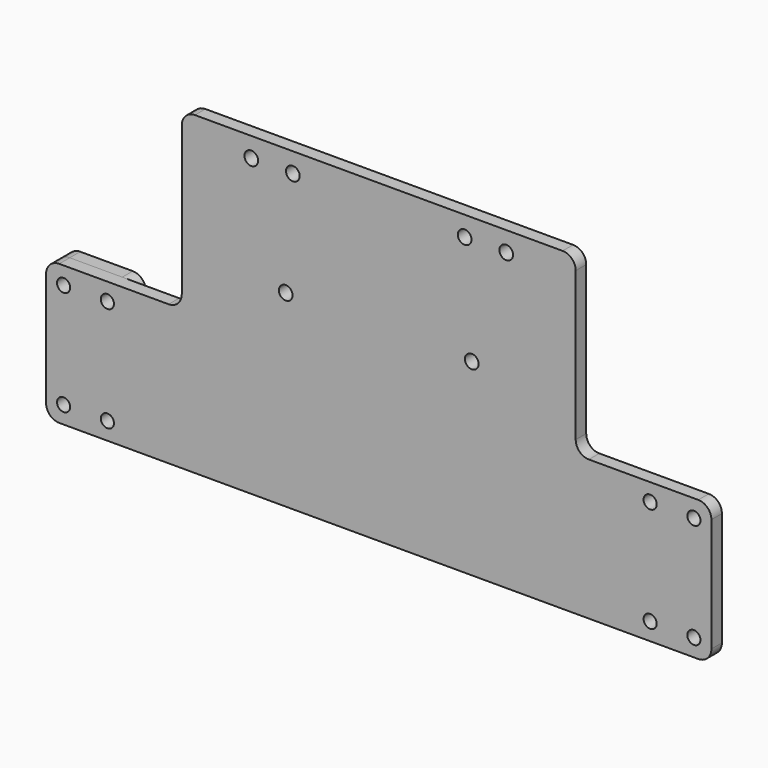
from build123d import *

# Parameters (mm, degrees)
F0_R     = 9.9314
F0_R_2   = 9.525
F1_DEPTH = 19.05
F2_R     = 9.525
F3_DEPTH = 19.05


with BuildPart() as f1:
    # F0 (on Front) → F1 (new body)
    with BuildSketch(Plane.XZ):
        with BuildLine():
            Line((266.7, 0), (0, 0))
            Line((0, 0), (0, -254))
            Line((0, -254), (304.8, -254))
            ThreePointArc((304.8, -254), (291.329616, -248.420384), (285.75, -234.95))
            Line((285.75, -234.95), (285.75, -19.05))
            ThreePointArc((285.75, -19.05), (280.170384, -5.579616), (266.7, 0))
        make_face()
        with Locations((134.9375, -184.15)):
            Circle(F0_R, mode=Mode.SUBTRACT)
        with Locations((124.61875, -28.575)):
            Circle(F0_R, mode=Mode.SUBTRACT)
        with Locations((184.94375, -28.575)):
            Circle(F0_R, mode=Mode.SUBTRACT)
        with BuildLine():
            ThreePointArc((-266.7, 0), (-280.170384, -5.579616), (-285.75, -19.05))
            Line((-285.75, -19.05), (-285.75, -234.95))
            ThreePointArc((-285.75, -234.95), (-291.329616, -248.420384), (-304.8, -254))
            Line((-304.8, -254), (0, -254))
            Line((0, -254), (0, 0))
            Line((0, 0), (-266.7, 0))
        make_face()
        with Locations((-134.9375, -184.15)):
            Circle(F0_R, mode=Mode.SUBTRACT)
        with Locations((-184.94375, -28.575)):
            Circle(F0_R, mode=Mode.SUBTRACT)
        with Locations((-124.61875, -28.575)):
            Circle(F0_R, mode=Mode.SUBTRACT)
        with BuildLine():
            Line((0, -254), (-304.8, -254))
            Line((-304.8, -254), (-463.55, -254))
            ThreePointArc((-463.55, -254), (-477.020384, -259.579616), (-482.6, -273.05))
            Line((-482.6, -273.05), (-482.6, -438.15))
            ThreePointArc((-482.6, -438.15), (-477.020384, -451.620384), (-463.55, -457.2))
            Line((-463.55, -457.2), (0, -457.2))
            Line((0, -457.2), (0, -254))
        make_face()
        with Locations((-457.2, -431.8)):
            Circle(F0_R_2, mode=Mode.SUBTRACT)
        with Locations((-393.7, -431.8)):
            Circle(F0_R_2, mode=Mode.SUBTRACT)
        with Locations((-457.2, -279.4)):
            Circle(F0_R_2, mode=Mode.SUBTRACT)
        with Locations((-393.7, -279.4)):
            Circle(F0_R_2, mode=Mode.SUBTRACT)
        with BuildLine():
            Line((304.8, -254), (0, -254))
            Line((0, -254), (0, -457.2))
            Line((0, -457.2), (463.55, -457.2))
            ThreePointArc((463.55, -457.2), (477.020384, -451.620384), (482.6, -438.15))
            Line((482.6, -438.15), (482.6, -273.05))
            ThreePointArc((482.6, -273.05), (477.020384, -259.579616), (463.55, -254))
            Line((463.55, -254), (304.8, -254))
        make_face()
        with Locations((393.7, -431.8)):
            Circle(F0_R_2, mode=Mode.SUBTRACT)
        with Locations((457.2, -431.8)):
            Circle(F0_R_2, mode=Mode.SUBTRACT)
        with Locations((393.7, -279.4)):
            Circle(F0_R_2, mode=Mode.SUBTRACT)
        with Locations((457.2, -279.4)):
            Circle(F0_R_2, mode=Mode.SUBTRACT)
    extrude(amount=F1_DEPTH)


with BuildPart() as f3:
    # F2 (on Front) → F3 (new body)
    with BuildSketch(Plane.XZ):
        with BuildLine():
            Line((-387.35, -254), (-425.45, -254))
            Line((-425.45, -254), (-463.55, -254))
            ThreePointArc((-463.55, -254), (-477.020384, -259.579616), (-482.6, -273.05))
            Line((-482.6, -273.05), (-482.6, -438.15))
            ThreePointArc((-482.6, -438.15), (-477.020384, -451.620384), (-463.55, -457.2))
            Line((-463.55, -457.2), (-425.45, -457.2))
            Line((-425.45, -457.2), (-387.35, -457.2))
            ThreePointArc((-387.35, -457.2), (-373.879616, -451.620384), (-368.3, -438.15))
            Line((-368.3, -438.15), (-368.3, -273.05))
            ThreePointArc((-368.3, -273.05), (-373.879616, -259.579616), (-387.35, -254))
        make_face()
        with Locations((-457.2, -431.8)):
            Circle(F2_R, mode=Mode.SUBTRACT)
        with Locations((-393.7, -431.8)):
            Circle(F2_R, mode=Mode.SUBTRACT)
        with Locations((-457.2, -279.4)):
            Circle(F2_R, mode=Mode.SUBTRACT)
        with Locations((-393.7, -279.4)):
            Circle(F2_R, mode=Mode.SUBTRACT)
    extrude(amount=-F3_DEPTH)


solid = Compound([f1.part, f3.part])
